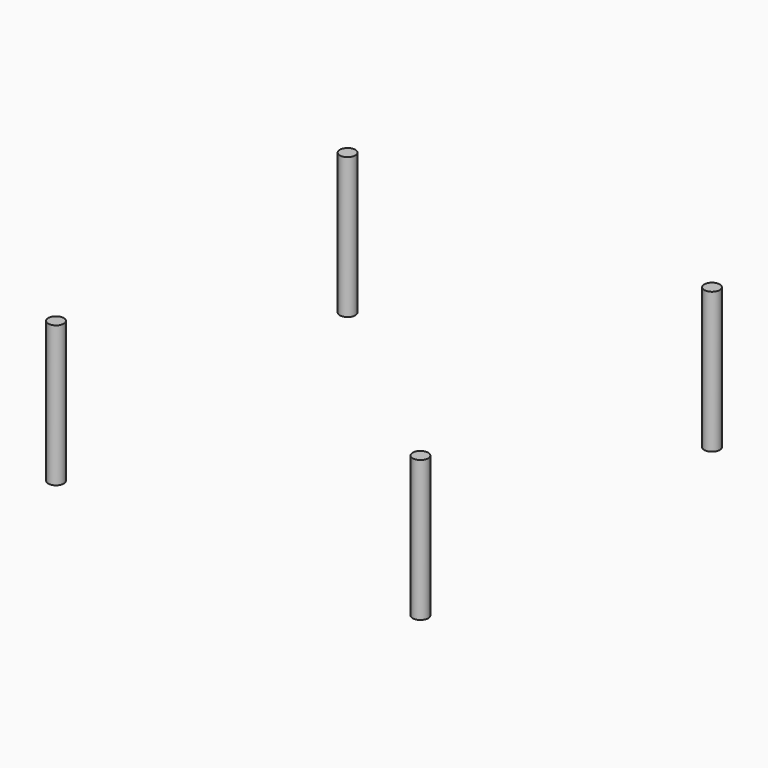
from build123d import *

# Parameters (mm, degrees)
SKETCH006_R       = 0.405
PAD005_DEPTH      = 1.01
PAD005_DEPTH_BACK = 6.35
ARRAY001_X_COUNT  = 2
ARRAY001_X_PITCH  = 19.05
ARRAY001_Y_COUNT  = 2
ARRAY001_Y_PITCH  = 19.05


with BuildPart() as part:
    # Sketch006 → Pad005 (new body, two sides)
    with BuildSketch(Plane.XY) as pad005_sk:
        Circle(SKETCH006_R)
    extrude(amount=PAD005_DEPTH)
    extrude(pad005_sk.sketch, amount=-PAD005_DEPTH_BACK)

    # Array001 X: part ×2


with BuildPart() as part_1:
    add(part.part)
    with Locations(*[(i * ARRAY001_X_PITCH, 0, 0) for i in range(1, ARRAY001_X_COUNT)]):
        add(part.part)

    # Array001 Y: part ×2


with BuildPart() as part_2:
    add(part_1.part)
    with Locations(*[(0, -i * ARRAY001_Y_PITCH, 0) for i in range(1, ARRAY001_Y_COUNT)]):
        add(part_1.part)


solid = part_2.part
